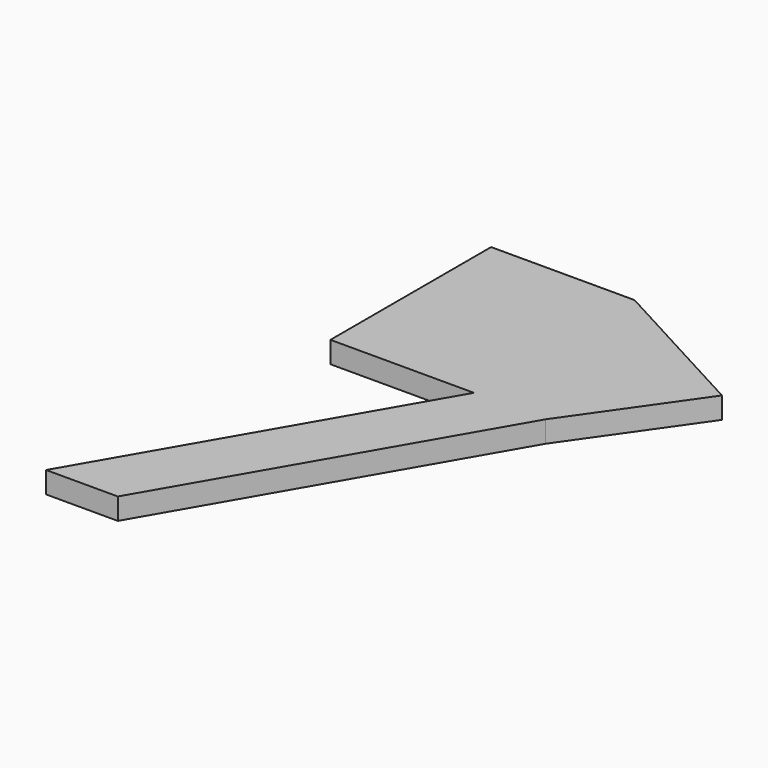
from build123d import *

# Parameters (mm, degrees)
PAD_DEPTH = 1.5


with BuildPart() as part:
    # Sketch → Pad (new body)
    with BuildSketch(Plane.XY):
        Polygon((0, 0), (12.5, 21.650635), (2.5, 21.650635), (2.5, 35.650635), (12.5, 35.650635), (23.235764, 29.842156), (17.5, 21.650635), (5, 0), align=None)
    extrude(amount=PAD_DEPTH)


solid = part.part
